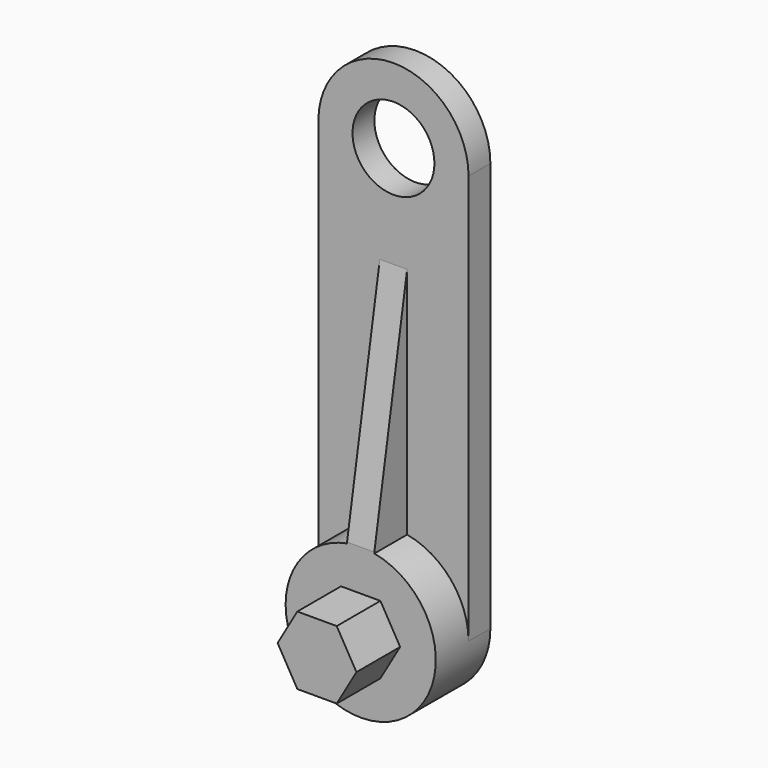
from build123d import *

# Parameters (mm, degrees)
F0_R     = 3
F1_DEPTH = 2
F2_DEPTH = 5
F3_DEPTH = 9
F5_DEPTH = 1
F6_W     = 4
F6_H     = 2.5


with BuildPart() as f1:
    # F0 (on Front) → F1 (new body)
    with BuildSketch(Plane.XZ):
        with BuildLine():
            ThreePointArc((5.5, 30), (0, 35.5), (-5.5, 30))
            Line((-5.5, 30), (-5.5, 0))
            ThreePointArc((-5.5, 0), (0, 5.5), (5.5, 0))
            Line((5.5, 0), (5.5, 30))
        make_face()
        with Locations((0, 30)):
            Circle(F0_R, mode=Mode.SUBTRACT)
    extrude(amount=F1_DEPTH)

    # F0 (on Front) → F2 (join)
    with BuildSketch(Plane.XZ):
        with BuildLine():
            ThreePointArc((5.5, 0), (0, 5.5), (-5.5, 0))
            ThreePointArc((-5.5, 0), (0, -5.5), (5.5, 0))
        make_face()
        Polygon((-2.886751, 0), (-1.443376, 2.5), (1.443376, 2.5), (2.886751, 0), (1.443376, -2.5), (-1.443376, -2.5), align=None, mode=Mode.SUBTRACT)
    extrude(amount=F2_DEPTH)

    # F0 (on Front) → F3 (join)
    with BuildSketch(Plane.XZ):
        Polygon((1.443376, 2.5), (-1.443376, 2.5), (-2.886751, 0), (-1.443376, -2.5), (1.443376, -2.5), (2.886751, 0), align=None)
    extrude(amount=F3_DEPTH)

    # F4 (on Right) → F5 (join, symmetric)
    with BuildSketch(Plane.YZ):
        Polygon((-5, 5.5), (-5, 3.5), (-2, 3.5), (-2, 5.5), (-2, 22.513845), align=None)
    extrude(amount=F5_DEPTH, both=True)

    # F6 (on Right) → F7 (revolve, cut)
    with BuildSketch(Plane.YZ):
        with Locations((-2, 1.25)):
            Rectangle(F6_W, F6_H)
    revolve(axis=Axis((0, -2, 0), (0, -1, 0)), mode=Mode.SUBTRACT)


solid = f1.part
